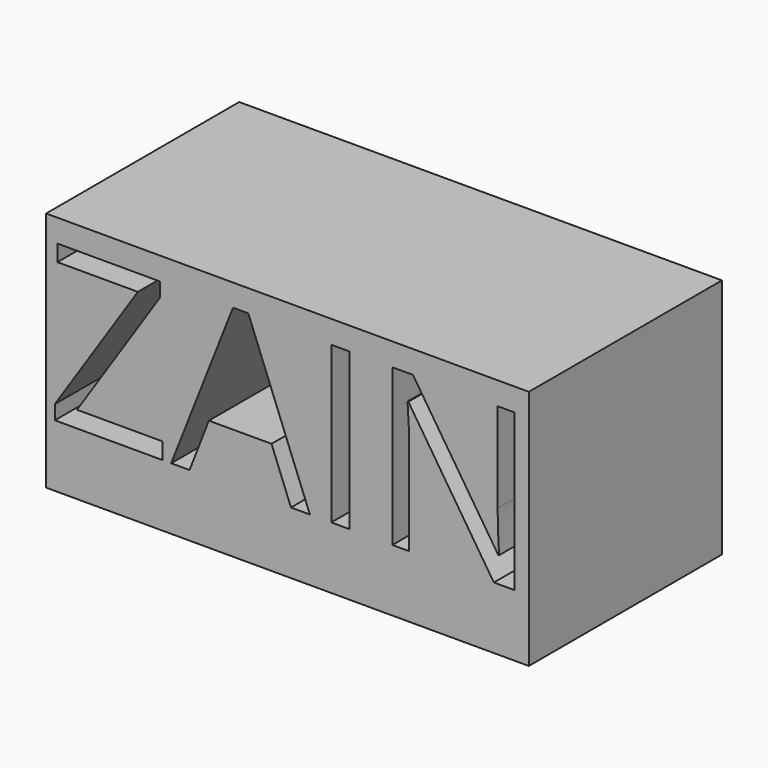
from build123d import *

# Parameters (mm, degrees)
F0_W     = 101.6
F0_H     = 50.8000018598
F1_DEPTH = 25.4
F2_W     = 101.6
F2_H     = 50.8000018598
F2_W_2   = 3.8264841478
F2_H_2   = 32.9250585148
F3_DEPTH = 25.4


with BuildPart() as f1:
    # F0 (on Front) → F1 (new body)
    with BuildSketch(Plane.XZ):
        with Locations((-3.8295406848, 7.522309199)):
            Rectangle(F0_W, F0_H)
    extrude(amount=F1_DEPTH)

    # F2 (on face) → F3 (join)
    with BuildSketch(Plane.XZ.offset(25.4)):
        with Locations((-3.8295406848, 7.522309199)):
            Rectangle(F2_W, F2_H)
        Polygon((-30.1501307976, -1.3310039), (-30.1501307976, -4.797178806), (-52.7847573669, -4.797178806), (-52.7847573669, -1.7994059143), (-35.30975914, 24.6833233572), (-52.2442935042, 24.6833233572), (-52.2442935042, 28.1278797087), (-30.6473575513, 28.1278797087), (-30.6473575513, 25.1301068171), (-48.1223557781, -1.3310039), align=None, mode=Mode.SUBTRACT)
        Polygon((0.8797011054, -4.797178806), (-3.0837005543, -4.797178806), (-7.1840197259, 5.6734077604), (-20.3785441602, 5.6734077604), (-24.428420038, -4.797178806), (-28.3053474796, -4.797178806), (-15.2909776662, 28.2647972206), (-12.0698130446, 28.2647972206), align=None, mode=Mode.SUBTRACT)
        with Locations((7.3184272562, 11.6653504514)):
            Rectangle(F2_W_2, F2_H_2, mode=Mode.SUBTRACT)
        with BuildLine():
            Line((43.9798926083, 28.1278797087), (43.9798926083, -4.797178806))
            Line((43.9798926083, -4.797178806), (39.6129445978, -4.797178806))
            Line((39.6129445978, -4.797178806), (21.6191010628, 22.8313338544))
            Line((21.6191010628, 22.8313338544), (21.4389464419, 22.8313338544))
            add(Edge.make_bspline(
                [(21.4389464419, 22.8313338544), (21.7992556837, 17.9671590903), (21.7992556837, 13.9172832125)],
                knots=[0, 0, 0, 1, 1, 1], degree=2))
            Line((21.7992556837, 13.9172832125), (21.7992556837, -4.797178806))
            Line((21.7992556837, -4.797178806), (18.2610189293, -4.797178806))
            Line((18.2610189293, -4.797178806), (18.2610189293, 28.1278797087))
            Line((18.2610189293, 28.1278797087), (22.5847298308, 28.1278797087))
            Line((22.5847298308, 28.1278797087), (40.5353362568, 0.6074598208))
            Line((40.5353362568, 0.6074598208), (40.7154908777, 0.6074598208))
            add(Edge.make_bspline(
                [(40.7154908777, 0.6074598208), (40.6722537687, 1.212779347), (40.5137177023, 4.5132120018)],
                knots=[0, 0, 0, 1, 1, 1], degree=2))
            add(Edge.make_bspline(
                [(40.5137177023, 4.5132120018), (40.3551816359, 7.8136446566), (40.3984187449, 9.2332630693)],
                knots=[0, 0, 0, 1, 1, 1], degree=2))
            Line((40.3984187449, 9.2332630693), (40.3984187449, 28.1278797087))
            Line((40.3984187449, 28.1278797087), (43.9798926083, 28.1278797087))
        make_face(mode=Mode.SUBTRACT)
    extrude(amount=F3_DEPTH)


solid = f1.part
